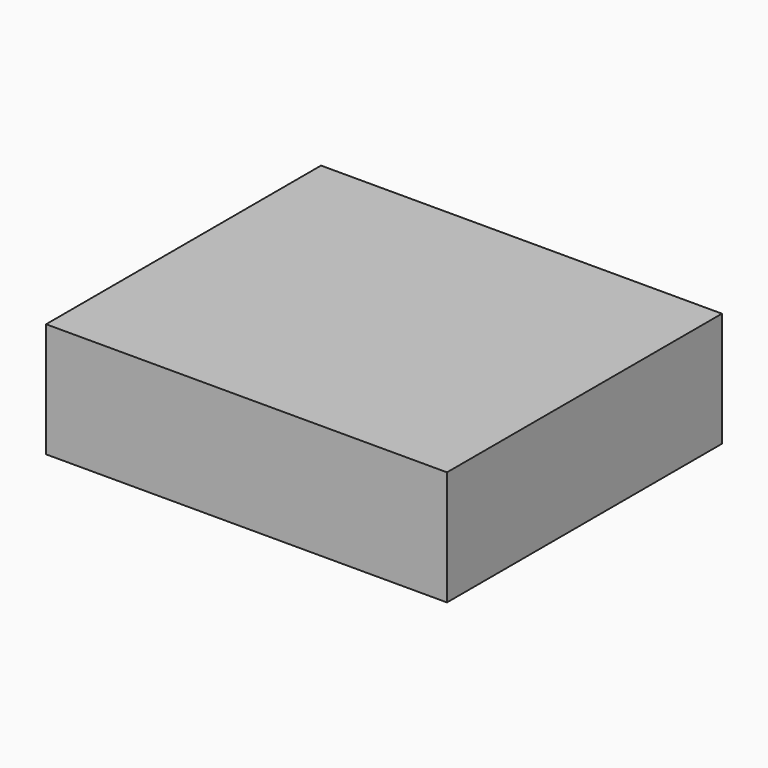
from build123d import *

# Parameters (mm, degrees)
SKETCH_W  = 70
SKETCH_H  = 60
PAD_DEPTH = 20


with BuildPart() as part:
    # Sketch → Pad (new body)
    with BuildSketch(Plane.XY):
        with Locations((5.316251, 10.066367)):
            Rectangle(SKETCH_W, SKETCH_H)
    extrude(amount=PAD_DEPTH)


solid = part.part
